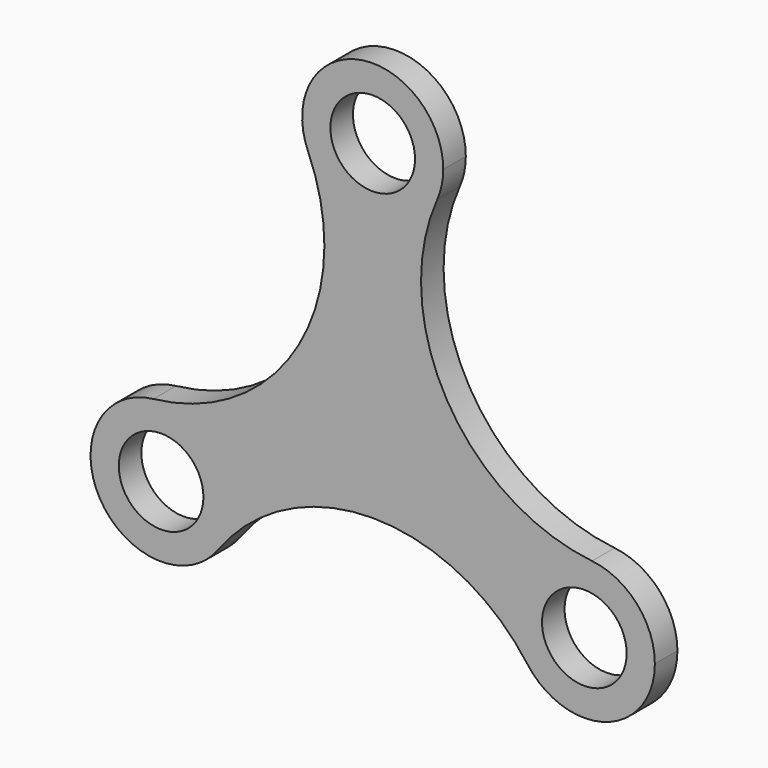
from build123d import *

# Parameters (mm, degrees)
F0_R     = 15
F1_DEPTH = 5
F2_DEPTH = 10


with BuildPart() as f1:
    # F0 (on Front) → F1 (new body)
    with BuildSketch(Plane.XZ):
        with BuildLine():
            ThreePointArc((22.882668, 119.834872), (24.464941, 124.759235), (25, 129.903811))
            ThreePointArc((25, 129.903811), (-5.144575, 154.368752), (-22.882668, 119.834872))
            ThreePointArc((-22.882668, 119.834872), (0, 104.903811), (22.882668, 119.834872))
        make_face()
        with Locations((0, 129.903811)):
            Circle(F0_R, mode=Mode.SUBTRACT)
        with BuildLine():
            ThreePointArc((22.882668, 119.834872), (0, 104.903811), (-22.882668, 119.834872))
            ThreePointArc((-22.882668, 119.834872), (-26.233796, 58.447359), (-77.721377, 24.851441))
            ThreePointArc((-77.721377, 24.851441), (-58.312197, 18.614973), (-50, 0))
            ThreePointArc((-50, 0), (-51.240452, -7.777138), (-54.83871, -14.782502))
            ThreePointArc((-54.83871, -14.782502), (0, 13.009092), (54.83871, -14.782502))
            ThreePointArc((54.83871, -14.782502), (53.349365, 12.5), (77.721377, 24.851441))
            ThreePointArc((77.721377, 24.851441), (26.233796, 58.447359), (22.882668, 119.834872))
        make_face()
        with BuildLine():
            ThreePointArc((-50, 0), (-58.312197, 18.614973), (-77.721377, 24.851441))
            ThreePointArc((-77.721377, 24.851441), (-96.650635, -12.5), (-54.83871, -14.782502))
            ThreePointArc((-54.83871, -14.782502), (-51.240452, -7.777138), (-50, 0))
        make_face()
        with Locations((-75, 0)):
            Circle(F0_R, mode=Mode.SUBTRACT)
        with BuildLine():
            ThreePointArc((100, 0), (93.614973, 16.687803), (77.721377, 24.851441))
            ThreePointArc((77.721377, 24.851441), (53.349365, 12.5), (54.83871, -14.782502))
            ThreePointArc((54.83871, -14.782502), (82.777138, -23.759548), (100, 0))
        make_face()
        with Locations((75, 0)):
            Circle(F0_R, mode=Mode.SUBTRACT)
    extrude(amount=F1_DEPTH)

    # F0 (on Front) → F2 (join)
    with BuildSketch(Plane.XZ):
        with BuildLine():
            ThreePointArc((22.882668, 119.834872), (24.464941, 124.759235), (25, 129.903811))
            ThreePointArc((25, 129.903811), (-5.144575, 154.368752), (-22.882668, 119.834872))
            ThreePointArc((-22.882668, 119.834872), (0, 104.903811), (22.882668, 119.834872))
        make_face()
        with Locations((0, 129.903811)):
            Circle(F0_R, mode=Mode.SUBTRACT)
        with BuildLine():
            ThreePointArc((22.882668, 119.834872), (0, 104.903811), (-22.882668, 119.834872))
            ThreePointArc((-22.882668, 119.834872), (-26.233796, 58.447359), (-77.721377, 24.851441))
            ThreePointArc((-77.721377, 24.851441), (-58.312197, 18.614973), (-50, 0))
            ThreePointArc((-50, 0), (-51.240452, -7.777138), (-54.83871, -14.782502))
            ThreePointArc((-54.83871, -14.782502), (0, 13.009092), (54.83871, -14.782502))
            ThreePointArc((54.83871, -14.782502), (53.349365, 12.5), (77.721377, 24.851441))
            ThreePointArc((77.721377, 24.851441), (26.233796, 58.447359), (22.882668, 119.834872))
        make_face()
        with BuildLine():
            ThreePointArc((-50, 0), (-58.312197, 18.614973), (-77.721377, 24.851441))
            ThreePointArc((-77.721377, 24.851441), (-96.650635, -12.5), (-54.83871, -14.782502))
            ThreePointArc((-54.83871, -14.782502), (-51.240452, -7.777138), (-50, 0))
        make_face()
        with Locations((-75, 0)):
            Circle(F0_R, mode=Mode.SUBTRACT)
        with BuildLine():
            ThreePointArc((100, 0), (93.614973, 16.687803), (77.721377, 24.851441))
            ThreePointArc((77.721377, 24.851441), (53.349365, 12.5), (54.83871, -14.782502))
            ThreePointArc((54.83871, -14.782502), (82.777138, -23.759548), (100, 0))
        make_face()
        with Locations((75, 0)):
            Circle(F0_R, mode=Mode.SUBTRACT)
    extrude(amount=F2_DEPTH)


solid = f1.part
